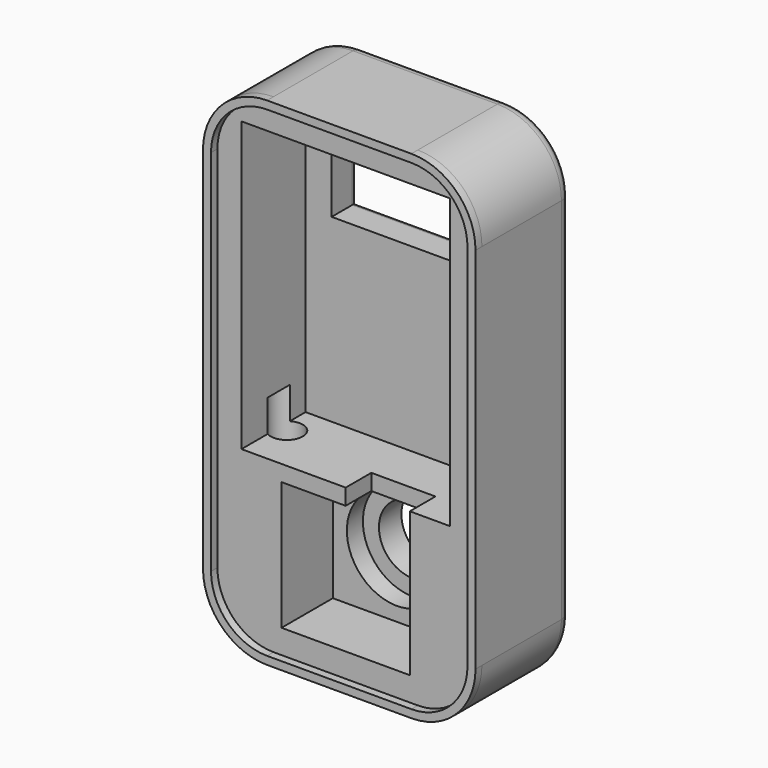
from build123d import *

# Parameters (mm, degrees)
F0_W      = 107.95
F0_H      = 196.85
F1_DEPTH  = 44.45
F2_W      = 82.55
F2_H      = 114.3
F3_DEPTH  = 31.75
F4_W      = 61.9125
F4_H      = 26.9875
F5_DEPTH  = 25.4
F6_W      = 50.8
F6_H      = 50.8
F7_DEPTH  = 25.4
F8_R      = 19.84375
F9_DEPTH  = 7.9375
F10_R     = 13.49375
F11_DEPTH = 25.4
F12_R     = 25.4
F13_R     = 5.08
F14_R     = 2.54
F16_DEPTH = 3.175
F17_R     = 3.175
F18_DEPTH = 76.2
F19_R     = 6.35
F20_DEPTH = 50.8
F21_DEPTH = 12.7
F22_W     = 25.4
F22_H     = 6.35
F23_DEPTH = 12.7


with BuildPart() as f1:
    # F0 (on Front) → F1 (new body)
    with BuildSketch(Plane.XZ):
        Rectangle(F0_W, F0_H)
    extrude(amount=F1_DEPTH)

    # F2 (on face) → F3 (cut)
    with BuildSketch(Plane.XZ.offset(44.45)):
        with Locations((0, 28.575)):
            Rectangle(F2_W, F2_H)
    extrude(amount=-F3_DEPTH, mode=Mode.SUBTRACT)

    # F4 (on face) → F5 (cut)
    with BuildSketch(Plane.XZ.offset(12.7)):
        with Locations((0, 56.35625)):
            Rectangle(F4_W, F4_H)
    extrude(amount=-F5_DEPTH, mode=Mode.SUBTRACT)

    # F6 (on face) → F7 (cut)
    with BuildSketch(Plane.XZ.offset(44.45)):
        with Locations((0, -60.325)):
            Rectangle(F6_W, F6_H)
    extrude(amount=-F7_DEPTH, mode=Mode.SUBTRACT)

    # F8 (on face) → F9 (cut)
    with BuildSketch(Plane.XZ.offset(19.05)):
        with Locations((0, -60.325)):
            Circle(F8_R)
    extrude(amount=-F9_DEPTH, mode=Mode.SUBTRACT)

    # F10 (on face) → F11 (cut)
    with BuildSketch(Plane.XZ.offset(11.1125)):
        with Locations((0, -60.325)):
            Circle(F10_R)
    extrude(amount=-F11_DEPTH, mode=Mode.SUBTRACT)

    # F12
    f12_edges = [f1.edges().sort_by_distance(p)[0] for p in [
        (53.975, -22.225, 98.425),
        (53.975, -22.225, -98.425),
        (-53.975, -22.225, -98.425),
        (-53.975, -22.225, 98.425),
    ]]
    fillet(f12_edges, radius=F12_R)

    # F13
    f13_edges = [f1.edges().sort_by_distance(p)[0] for p in [
        (-53.975, 0, 0),
        (-46.535512, 0, -90.985512),
        (0, 0, -98.425),
    ]]
    fillet(f13_edges, radius=F13_R)

    # F14
    f14_edges = [f1.edges().sort_by_distance(p)[0] for p in [
        (0, 0, 69.85),
        (30.95625, 0, 56.35625),
        (0, 0, 42.8625),
        (-30.95625, 0, 56.35625),
    ]]
    fillet(f14_edges, radius=F14_R)

    # F15 (on face) → F16 (join)
    with BuildSketch(Plane.XZ.offset(44.45)):
        with BuildLine():
            ThreePointArc((53.975, 73.025), (46.5355122421, 90.9855122421), (28.575, 98.425))
            Line((28.575, 98.425), (-28.575, 98.425))
            ThreePointArc((-28.575, 98.425), (-46.5355122421, 90.9855122421), (-53.975, 73.025))
            Line((-53.975, 73.025), (-53.975, -73.025))
            ThreePointArc((-53.975, -73.025), (-46.5355122421, -90.9855122421), (-28.575, -98.425))
            Line((-28.575, -98.425), (28.575, -98.425))
            ThreePointArc((28.575, -98.425), (46.5355122421, -90.9855122421), (53.975, -73.025))
            Line((53.975, -73.025), (53.975, 73.025))
        make_face()
        with BuildLine():
            ThreePointArc((28.575, 95.25), (44.2904482119, 88.7404482119), (50.8, 73.025))
            Line((50.8, 73.025), (50.8, -73.025))
            ThreePointArc((50.8, -73.025), (44.2904482119, -88.7404482119), (28.575, -95.25))
            Line((28.575, -95.25), (-28.575, -95.25))
            ThreePointArc((-28.575, -95.25), (-44.2904482119, -88.7404482119), (-50.8, -73.025))
            Line((-50.8, -73.025), (-50.8, 73.025))
            ThreePointArc((-50.8, 73.025), (-44.2904482119, 88.7404482119), (-28.575, 95.25))
            Line((-28.575, 95.25), (28.575, 95.25))
        make_face(mode=Mode.SUBTRACT)
    extrude(amount=F16_DEPTH)

    # F17 (on face) → F18 (cut)
    with BuildSketch(Plane(origin=(0, 0, -98.425), x_dir=(1, 0, 0), z_dir=(0, 0, -1))):
        with Locations((-38.1, 25.986155495)):
            Circle(F17_R)
    extrude(amount=-F18_DEPTH, mode=Mode.SUBTRACT)

    # F19 (on face) → F20 (cut)
    with BuildSketch(Plane.XY.offset(-28.575)):
        with Locations((-38.1, -25.986155495)):
            Circle(F19_R)
    extrude(amount=-F20_DEPTH, mode=Mode.SUBTRACT)

    # F19 (on face) → F21 (cut)
    with BuildSketch(Plane.XY.offset(-28.575)):
        with Locations((-38.1, -25.986155495)):
            Circle(F19_R)
    extrude(amount=F21_DEPTH, mode=Mode.SUBTRACT)

    # F22 (on face) → F23 (cut)
    with BuildSketch(Plane.XZ.offset(44.45)):
        with Locations((12.7, -31.75)):
            Rectangle(F22_W, F22_H)
    extrude(amount=-F23_DEPTH, mode=Mode.SUBTRACT)


solid = f1.part
